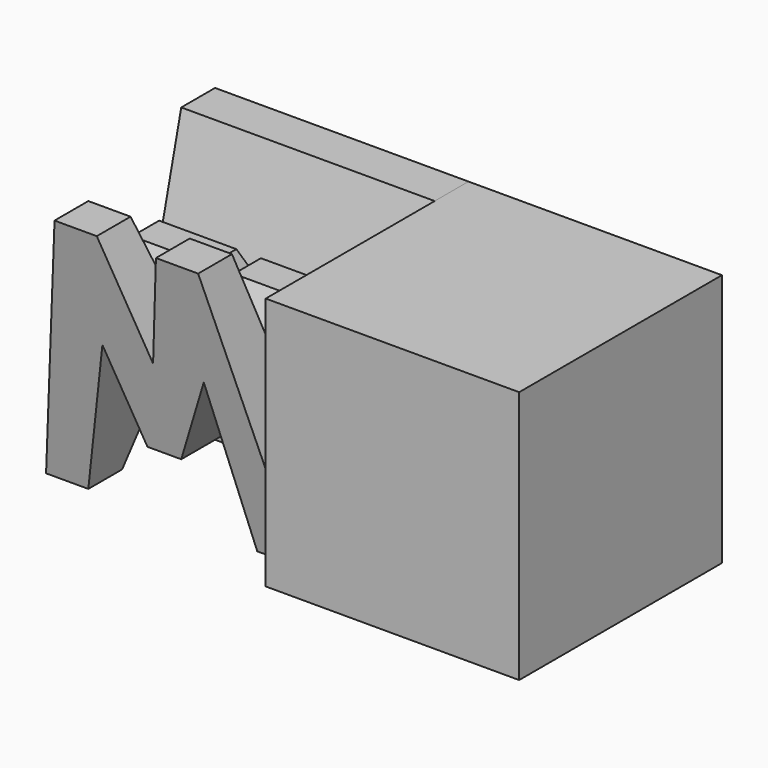
from build123d import *

# Parameters (mm, degrees)
F2_W     = 38.1
F2_H     = 38.1
F3_DEPTH = 38.1
F5_DEPTH = 38.1
F6_DEPTH = 38.1
F8_DEPTH = 25.4


with BuildPart() as f3:
    # F2 (on offset) → F3 (new body)
    with BuildSketch(Plane.YZ.offset(38.1)):
        with Locations((-19.05, 19.05)):
            Rectangle(F2_W, F2_H)
    extrude(amount=F3_DEPTH)


with BuildPart() as f5:
    # F2 (on offset) → F5 (new body)
    with BuildSketch(Plane.YZ.offset(38.1)):
        with Locations((-19.05, 19.05)):
            Rectangle(F2_W, F2_H)
    extrude(amount=-F5_DEPTH)

    # F4 (on offset) → F6 (cut)
    with BuildSketch(Plane.YZ.offset(38.1)):
        Polygon((-6.35, 38.1), (-31.75, 38.1), (-26.67, 17.952383), (-21.59, 28.812464), (-16.51, 28.812464), (-11.43, 17.952383), align=None)
        Polygon((-31.75, 0), (-38.1, 38.1), (-38.1, 0), align=None)
        Polygon((-19.05, 16.844211), (-25.4, 0), (-12.7, 0), align=None)
        Polygon((0, 0), (0, 38.1), (-6.35, 0), align=None)
    extrude(amount=-F6_DEPTH, mode=Mode.SUBTRACT)

    # F7 (on offset) → F8 (cut)
    with BuildSketch(Plane.XZ.offset(38.1)):
        Polygon((0, 38.1), (0, 0), (6.35, 38.1), align=None)
        Polygon((21.59, 38.1), (12.7, 38.1), (19.05, 22.225), align=None)
        Polygon((27.94, 38.1), (38.1, 0), (38.1, 38.1), align=None)
        Polygon((11.43, 22.225), (6.35, 0), (31.75, 0), (26.67, 22.225), (21.59, 9.525), (16.51, 9.525), align=None)
    extrude(amount=-F8_DEPTH, mode=Mode.SUBTRACT)


solid = Compound([f3.part, f5.part])
